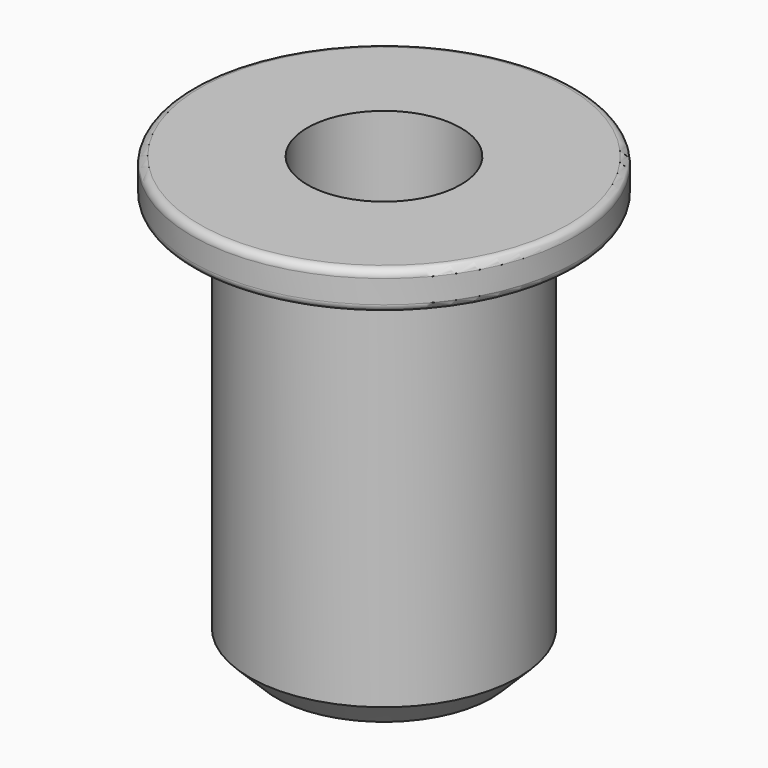
from build123d import *

# Parameters (mm, degrees)
F0_R     = 3.5
F0_R_2   = 2
F1_DEPTH = 10
F2_R     = 3.75
F2_R_2   = 2
F3_DEPTH = 0.5
F4_R     = 5
F4_R_2   = 2
F5_DEPTH = 1
F6_R     = 0.2
F7_SIZE  = 0.7


with BuildPart() as f1:
    # F0 (on Top) → F1 (new body)
    with BuildSketch(Plane.XY):
        Circle(F0_R)
        Circle(F0_R_2, mode=Mode.SUBTRACT)
    extrude(amount=F1_DEPTH)

    # F2 (on face) → F3 (join)
    with BuildSketch(Plane.XY.offset(10)):
        Circle(F2_R)
        Circle(F2_R_2, mode=Mode.SUBTRACT)
    extrude(amount=F3_DEPTH)

    # F4 (on face) → F5 (join)
    with BuildSketch(Plane.XY.offset(10.5)):
        Circle(F4_R)
        Circle(F4_R_2, mode=Mode.SUBTRACT)
    extrude(amount=F5_DEPTH)

    # F6
    f6_edges = [f1.edges().sort_by_distance(p)[0] for p in [
        (-5, 0, 10.5),
        (-5, 0, 11.5),
        (-3.75, 0, 10),
    ]]
    fillet(f6_edges, radius=F6_R)

    # F7
    f7_edges = [f1.edges().sort_by_distance(p)[0] for p in [
        (-3.5, 0, 0),
    ]]
    chamfer(f7_edges, length=F7_SIZE)


solid = f1.part
